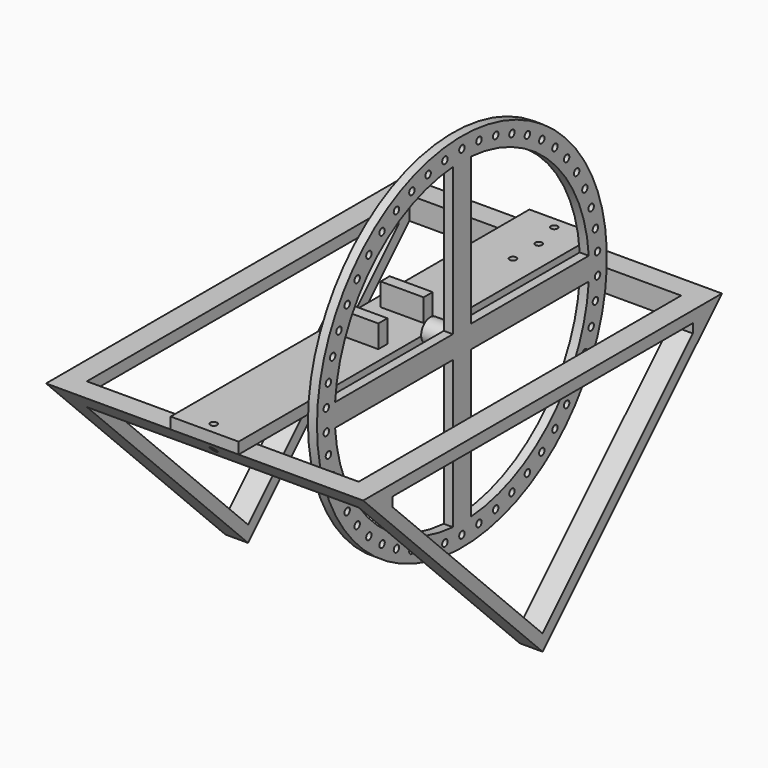
from build123d import *

# Parameters (mm, degrees)
PAD_DEPTH               = 70
SKETCH015_W             = 177.989898
SKETCH015_H             = 120
POCKET_DEPTH            = 98.995949
POCKET009_DEPTH         = 140.001
SKETCH018_R             = 1.5
POCKET010_DEPTH         = 7
SKETCH011_R             = 80
PAD004_DEPTH            = 4
SKETCH012_R             = 5
SKETCH012_R_2           = 1.1
PAD005_DEPTH            = 10
POCKET013_DEPTH         = 5
POLARPATTERN_COUNT      = 4
SKETCH024_R             = 1.5
POCKET014_DEPTH         = 5
POLARPATTERN001_COUNT   = 50
BODY002_PLACEMENT_ANGLE = 180
SKETCH019_W             = 30
SKETCH019_H             = 198
PAD006_DEPTH            = 5
SKETCH020_R             = 1.5
POCKET011_DEPTH         = 405.645481
SKETCH021_R             = 1.5
POCKET012_DEPTH         = 5.001
SKETCH022_W             = 19
SKETCH022_H             = 5
PAD007_DEPTH            = 10


with BuildPart() as prism:
    # Sketch → Pad (new body, symmetric)
    with BuildSketch(Plane.YZ):
        Polygon((-98.994949, 98.994949), (0, 0), (98.994949, 98.994949), align=None)
    extrude(amount=PAD_DEPTH, both=True)

    # Sketch015 (on Face3 of Pad) → Pocket (cut, through all)
    with BuildSketch(Plane(origin=(0, 0, 98.994949), x_dir=(0, -1, 0), z_dir=(0, 0, 1))):
        Rectangle(SKETCH015_W, SKETCH015_H)
    extrude(amount=-POCKET_DEPTH, mode=Mode.SUBTRACT)

    # Sketch016 (on Face7 of Pocket) → Pocket009 (cut, through all)
    with BuildSketch(Plane.YZ.offset(70)):
        Polygon((-82.923882, 93.994949), (-82.923882, 89.994949), (0, 7.071068), (82.923882, 89.994949), (82.923882, 93.994949), align=None)
    extrude(amount=-POCKET009_DEPTH, mode=Mode.SUBTRACT)

    # Sketch018 (on Face8 of Pocket009) → Pocket010 (cut)
    with BuildSketch(Plane(origin=(0, 0, 98.994949), x_dir=(0, -1, 0), z_dir=(0, 0, 1))):
        with Locations((-93.994949, 0)):
            Circle(SKETCH018_R)
    pocket010 = extrude(amount=-POCKET010_DEPTH, mode=Mode.SUBTRACT)

    # Mirrored: Pocket010 across XZ
    add(pocket010.mirror(Plane.XZ), mode=Mode.SUBTRACT)


with BuildPart() as wheel:
    # Sketch011 → Pad004 (new body)
    with BuildSketch(Plane.YZ):
        Circle(SKETCH011_R)
    extrude(amount=PAD004_DEPTH)

    # Sketch012 (on Face3 of Pad004) → Pad005 (join)
    with BuildSketch(Plane.YZ.offset(4)):
        Circle(SKETCH012_R)
        Circle(SKETCH012_R_2, mode=Mode.SUBTRACT)
    extrude(amount=PAD005_DEPTH)

    # Sketch023 (on Face2 of Pad005) → Pocket013 (cut)
    with BuildSketch(Plane(origin=(0, 0, 0), x_dir=(0, 1, 0), z_dir=(-1, 0, 0))):
        with BuildLine():
            ThreePointArc((70, 5), (49.623583, 49.623583), (5, 70))
            Line((5, 5), (5, 70))
            Line((70, 5), (5, 5))
        make_face()
    pocket013 = extrude(amount=-POCKET013_DEPTH, mode=Mode.SUBTRACT)

    # PolarPattern: Pocket013 ×4 about axis
    polarpattern_axis = Axis((0, 0, 0), (-1, 0, 0))
    for i in range(1, POLARPATTERN_COUNT):
        add(pocket013.rotate(polarpattern_axis, i * 360 / POLARPATTERN_COUNT), mode=Mode.SUBTRACT)

    # Sketch024 (on Face2 of PolarPattern) → Pocket014 (cut)
    with BuildSketch(Plane(origin=(0, 0, 0), x_dir=(0, 1, 0), z_dir=(-1, 0, 0))):
        with Locations((0, 75)):
            Circle(SKETCH024_R)
    pocket014 = extrude(amount=-POCKET014_DEPTH, mode=Mode.SUBTRACT)

    # PolarPattern001: Pocket014 ×50 about axis
    polarpattern001_axis = Axis((0, 0, 0), (-1, 0, 0))
    for i in range(1, POLARPATTERN001_COUNT):
        add(pocket014.rotate(polarpattern001_axis, i * 360 / POLARPATTERN001_COUNT), mode=Mode.SUBTRACT)


with BuildPart() as wheel_1:
    # Body002 placement: moved
    add(wheel.part.moved(Location((34.55409, -0.187504, 109))).rotate(Axis((34.55409, -0.187504, 109), (0, 0, -1)), BODY002_PLACEMENT_ANGLE))


with BuildPart() as bridge:
    # Sketch019 → Pad006 (new body)
    with BuildSketch(Plane.XY):
        Rectangle(SKETCH019_W, SKETCH019_H)
    extrude(amount=PAD006_DEPTH)

    # Sketch020 (on Face6 of Pad006) → Pocket011 (cut, through all)
    with BuildSketch(Plane.XY.offset(5)):
        with Locations((0, 94)):
            Circle(SKETCH020_R)
    pocket011 = extrude(amount=-POCKET011_DEPTH, mode=Mode.SUBTRACT)

    # Mirrored001: Pocket011 across XZ
    add(pocket011.mirror(Plane.XZ), mode=Mode.SUBTRACT)

    # Sketch021 (on Face5 of Mirrored001) → Pocket012 (cut, through all)
    with BuildSketch(Plane.XY.offset(5)):
        with Locations((3.5, 81)):
            Circle(SKETCH021_R)
        with Locations((3.5, 66.8)):
            Circle(SKETCH021_R)
    extrude(amount=-POCKET012_DEPTH, mode=Mode.SUBTRACT)

    # Sketch022 (on Face5 of Pocket012) → Pad007 (join)
    with BuildSketch(Plane.XY.offset(5)):
        with Locations((0, 12.5)):
            Rectangle(SKETCH022_W, SKETCH022_H)
    pad007 = extrude(amount=PAD007_DEPTH)

    # Mirrored002: Pad007 across XZ
    add(pad007.mirror(Plane.XZ))


with BuildPart() as bridge_1:
    # Body003 placement: moved
    add(bridge.part.moved(Location((0, 0, 99))))


solid = Compound([prism.part, wheel_1.part, bridge_1.part])
